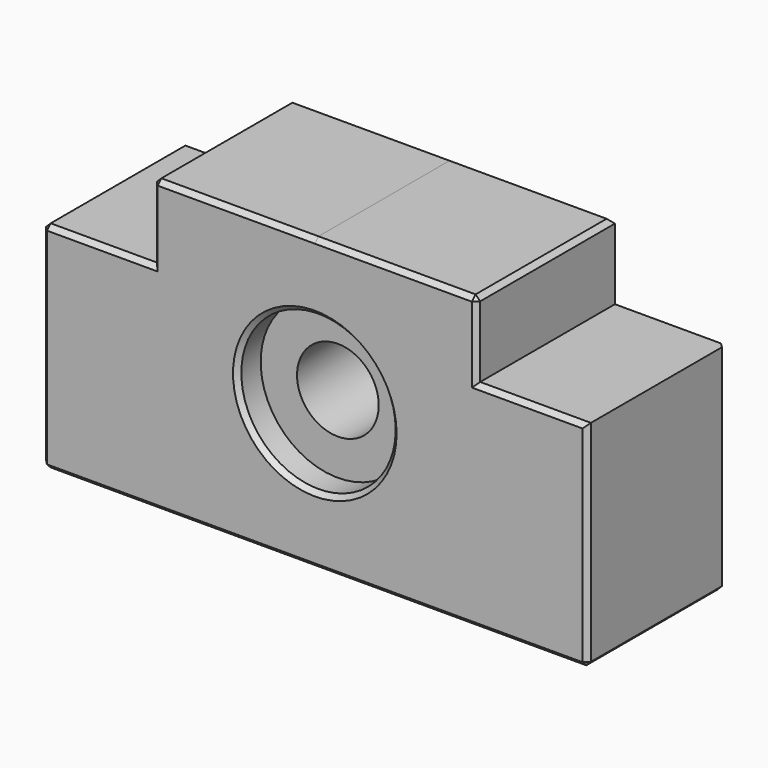
from build123d import *

# Parameters (mm, degrees)
F1_DEPTH = 19.05
F2_R     = 8.5
F3_DEPTH = 3.175
F4_R     = 4.5
F5_DEPTH = 15.875
F6_R     = 8.5
F7_DEPTH = 3.175
F8_SIZE  = 0.508


with BuildPart() as f1:
    # F0 (on Front) → F1 (new body)
    with BuildSketch(Plane.XZ):
        Polygon((-30, -16), (0, -16), (30, -16), (30, 7.6738381025), (17.8103312015, 7.6746507471), (17.810886279, 16.0008126076), (0, 16.002), (-17.810886279, 16.0008126076), (-17.8103312015, 7.6746507471), (-30, 7.6738381025), align=None)
    extrude(amount=F1_DEPTH)

    # F2 (on face) → F3 (cut)
    with BuildSketch(Plane.XZ.offset(19.05)):
        Circle(F2_R)
    extrude(amount=-F3_DEPTH, mode=Mode.SUBTRACT)

    # F4 (on face) → F5 (cut, through all)
    with BuildSketch(Plane.XZ.offset(15.875)):
        Circle(F4_R)
    extrude(amount=-F5_DEPTH, mode=Mode.SUBTRACT)

    # F6 (on Front) → F7 (cut)
    with BuildSketch(Plane.XZ):
        Circle(F6_R)
    extrude(amount=F7_DEPTH, mode=Mode.SUBTRACT)

    # F8
    f8_edges = [f1.edges().sort_by_distance(p)[0] for p in [
        (-30, -9.525, 7.673838),
        (-17.810886, -9.525, 16.000813),
        (-30, -19.05, -4.163081),
        (-8.905443, -19.05, 16.001406),
        (8.905443, -19.05, 16.001406),
        (23.905166, -19.05, 7.674244),
        (30, -19.05, -4.163081),
        (0, -19.05, -16),
        (-8.905443, 0, 16.001406),
        (8.905443, 0, 16.001406),
        (17.810886, -9.525, 16.000813),
        (-30, 0, -4.163081),
        (30, 0, -4.163081),
        (0, 0, -16),
        (30, -9.525, -16),
        (-30, -9.525, -16),
        (-8.5, 0, 0),
        (-23.905166, -19.05, 7.674244),
        (-17.810609, -19.05, 11.837732),
        (17.810609, -19.05, 11.837732),
        (-8.5, -19.05, 0),
    ]]
    chamfer(f8_edges, length=F8_SIZE)


solid = f1.part
